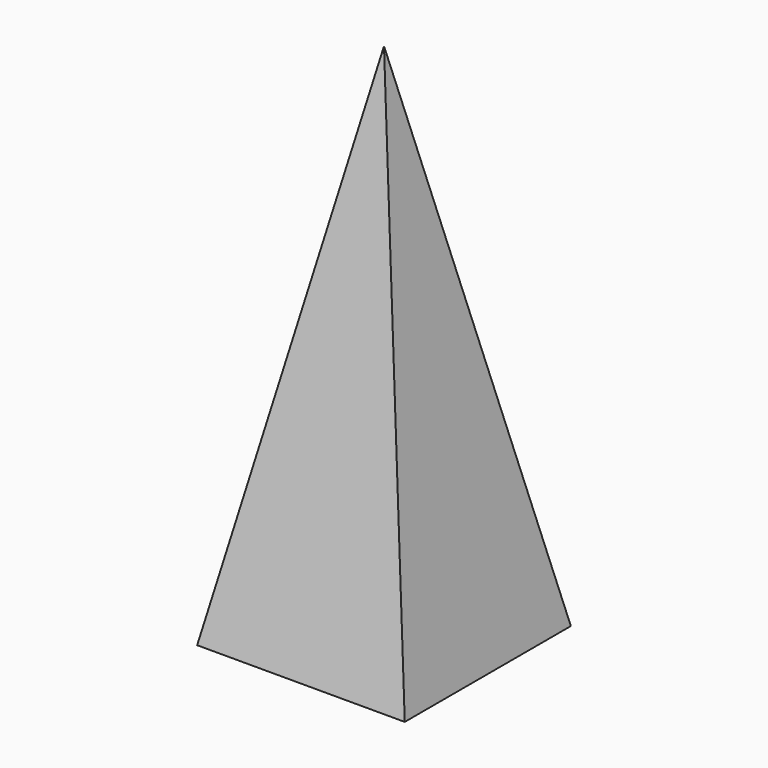
from build123d import *

# Parameters (mm, degrees)
F0_W     = 20
F0_H     = 20
F1_DEPTH = 50
F3_DEPTH = 25
F5_DEPTH = 12.5


with BuildPart() as f1:
    # F0 (on Top) → F1 (new body)
    with BuildSketch(Plane.XY):
        Rectangle(F0_W, F0_H)
    extrude(amount=F1_DEPTH)

    # F2 (on face) → F3 (cut)
    with BuildSketch(Plane.XZ.offset(10)):
        Polygon((-10, 50), (-10, 0), (0, 50), align=None)
        Polygon((0, 50), (10, 0), (10, 50), align=None)
    extrude(amount=-F3_DEPTH, mode=Mode.SUBTRACT)

    # F4 (on Right) → F5 (cut, symmetric)
    with BuildSketch(Plane.YZ):
        Polygon((0, 50), (10, 0), (10, 50), align=None)
        Polygon((-10, 50), (-10, 0), (0, 50), align=None)
    extrude(amount=F5_DEPTH, both=True, mode=Mode.SUBTRACT)


solid = f1.part
